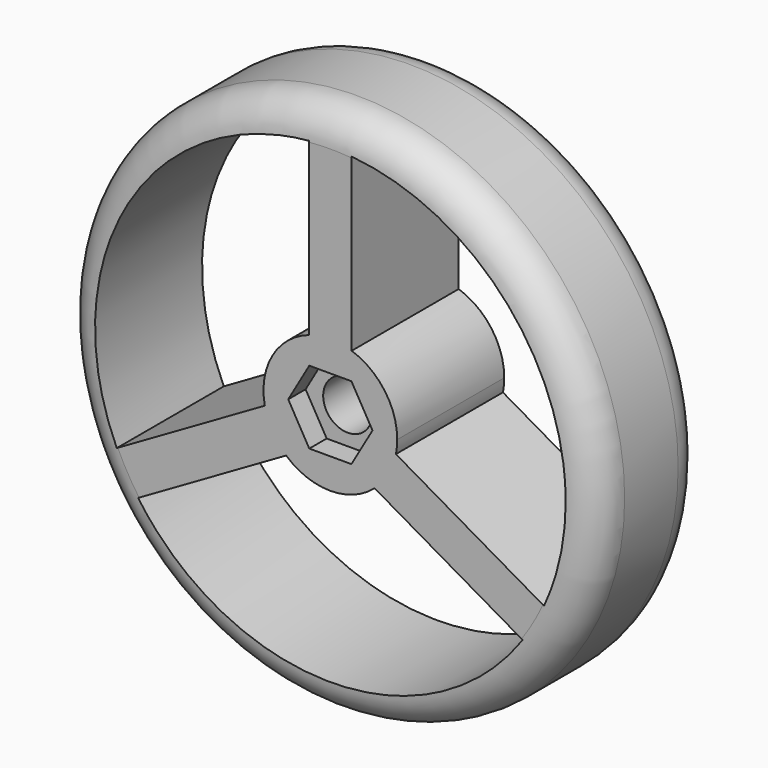
from build123d import *

# Parameters (mm, degrees)
F0_R     = 50.8
F1_DEPTH = 25.4
F4_DEPTH = 4.1275
F5_R     = 4.6609
F6_DEPTH = 25.401
F7_R     = 6.35
F9_DEPTH = 25.4


with BuildPart() as f1:
    # F0 (on Front) → F1 (new body)
    with BuildSketch(Plane.XZ):
        Circle(F0_R)
    extrude(amount=F1_DEPTH)

    # F3 (on face) → F4 (cut, symmetric)
    with BuildSketch(Plane.XZ.offset(25.4)):
        Polygon((4.0005, 6.9290692557), (-4.0005, 6.9290692557), (-8.001, 0), (-4.0005, -6.9290692557), (4.0005, -6.9290692557), (8.001, 0), align=None)
    extrude(amount=F4_DEPTH, both=True, mode=Mode.SUBTRACT)

    # F5 (on face) → F6 (cut, through all)
    with BuildSketch(Plane.XZ.offset(25.4)):
        Circle(F5_R)
    extrude(amount=-F6_DEPTH, mode=Mode.SUBTRACT)

    # F7
    f7_edges = [f1.edges().sort_by_distance(p)[0] for p in [
        (-50.8, -25.4, 0),
        (-50.8, 0, 0),
    ]]
    fillet(f7_edges, radius=F7_R)

    # F8 (on face) → F9 (cut, through all)
    with BuildSketch(Plane.XZ.offset(25.4)):
        with BuildLine():
            Line((4.0474563271, 44.494312185), (4.0474563271, 12.0321052626))
            ThreePointArc((4.0474563271, 12.0321052626), (10.3085981834, 7.4085263895), (12.6946232622, 0))
            ThreePointArc((12.6946232622, 0), (12.6317710989, -1.2616729662), (12.443836982, -2.5108526313))
            Line((12.443836982, -2.5108526313), (40.5569328397, -18.7419560925))
            ThreePointArc((40.5569328397, -18.7419560925), (43.6355891953, -9.594846279), (44.6780227801, 0))
            ThreePointArc((44.6780227801, 0), (32.9921056127, 30.1271752206), (4.0474563271, 44.494312185))
        make_face()
        with BuildLine():
            ThreePointArc((-12.443836982, -2.5108526313), (-10.9938662366, 6.3473116311), (-4.0474563271, 12.0321052626))
            Line((-4.0474563271, 12.0321052626), (-4.0474563271, 44.494312185))
            ThreePointArc((-4.0474563271, 44.494312185), (-38.6923027184, 22.33901139), (-40.5569328397, -18.7419560925))
            Line((-40.5569328397, -18.7419560925), (-12.443836982, -2.5108526313))
        make_face()
        with BuildLine():
            Line((36.5094765126, -25.7523560925), (8.3963806548, -9.5212526313))
            ThreePointArc((8.3963806548, -9.5212526313), (0, -12.6946232622), (-8.3963806548, -9.5212526313))
            Line((-8.3963806548, -9.5212526313), (-36.5094765126, -25.7523560925))
            ThreePointArc((-36.5094765126, -25.7523560925), (0, -44.6780227801), (36.5094765126, -25.7523560925))
        make_face()
    extrude(amount=-F9_DEPTH, mode=Mode.SUBTRACT)


solid = f1.part
